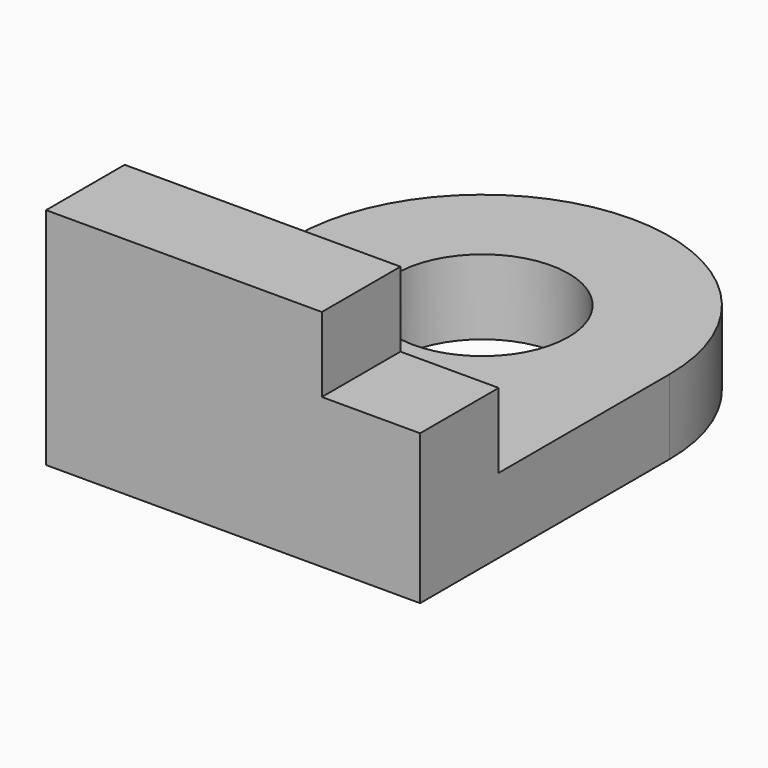
from build123d import *

# Parameters (mm, degrees)
F0_W     = 76.2
F0_H     = 63.5
F1_DEPTH = 15.24
F2_R     = 17.535676
F3_DEPTH = 15.241
F4_W     = 76.2
F4_H     = 20.012378
F5_DEPTH = 30.48
F6_W     = 20.0152
F6_H     = 20.012378
F7_DEPTH = 15.24


with BuildPart() as f1:
    # F0 (on Top) → F1 (new body)
    with BuildSketch(Plane.XY):
        with BuildLine():
            Line((-38.1, 31.75), (38.1, 31.75))
            ThreePointArc((38.1, 31.75), (0, 69.85), (-38.1, 31.75))
        make_face()
        Rectangle(F0_W, F0_H)
    extrude(amount=F1_DEPTH)

    # F2 (on face) → F3 (cut, through all)
    with BuildSketch(Plane.XY.offset(15.24)):
        with Locations((0, 31.75)):
            Circle(F2_R)
    extrude(amount=-F3_DEPTH, mode=Mode.SUBTRACT)

    # F4 (on face) → F5 (join)
    with BuildSketch(Plane.XY.offset(15.24)):
        with Locations((0, -21.743811)):
            Rectangle(F4_W, F4_H)
    extrude(amount=F5_DEPTH)

    # F6 (on face) → F7 (cut)
    with BuildSketch(Plane.XY.offset(45.72)):
        with Locations((28.0924, -21.743811)):
            Rectangle(F6_W, F6_H)
    extrude(amount=-F7_DEPTH, mode=Mode.SUBTRACT)


solid = f1.part
